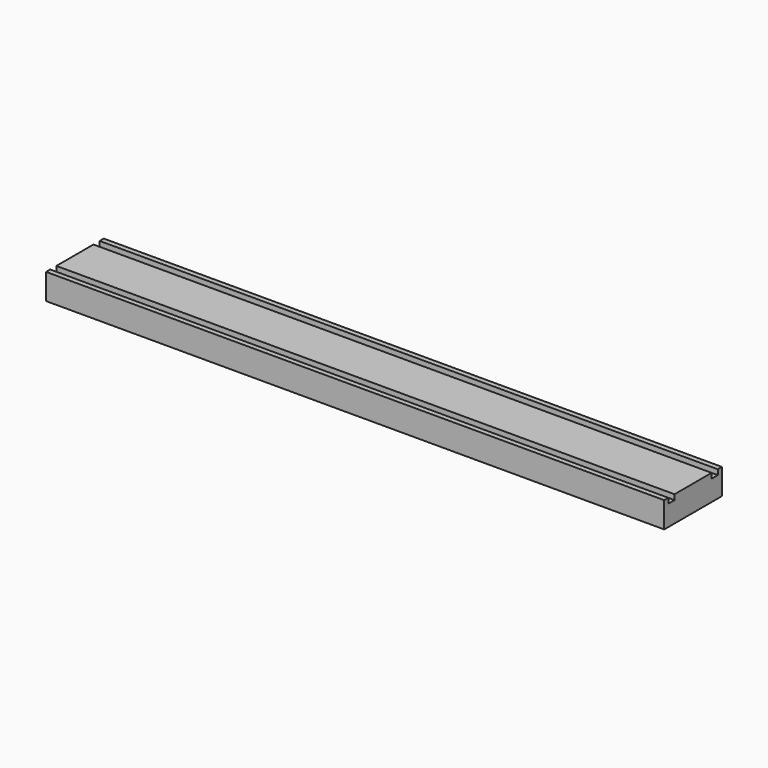
from build123d import *

# Parameters (mm, degrees)
F0_W     = 304.8
F0_H     = 35.56
F1_DEPTH = 12.7
F2_W     = 304.8
F2_H     = 3.81
F3_DEPTH = 2.54


with BuildPart() as f1:
    # F0 (on Top) → F1 (new body)
    with BuildSketch(Plane.XY):
        Rectangle(F0_W, F0_H)
    extrude(amount=F1_DEPTH)

    # F2 (on face) → F3 (cut)
    with BuildSketch(Plane.XY.offset(12.7)):
        with Locations((0, 13.335)):
            Rectangle(F2_W, F2_H)
        with Locations((0, -13.335)):
            Rectangle(F2_W, F2_H)
    extrude(amount=-F3_DEPTH, mode=Mode.SUBTRACT)


solid = f1.part
